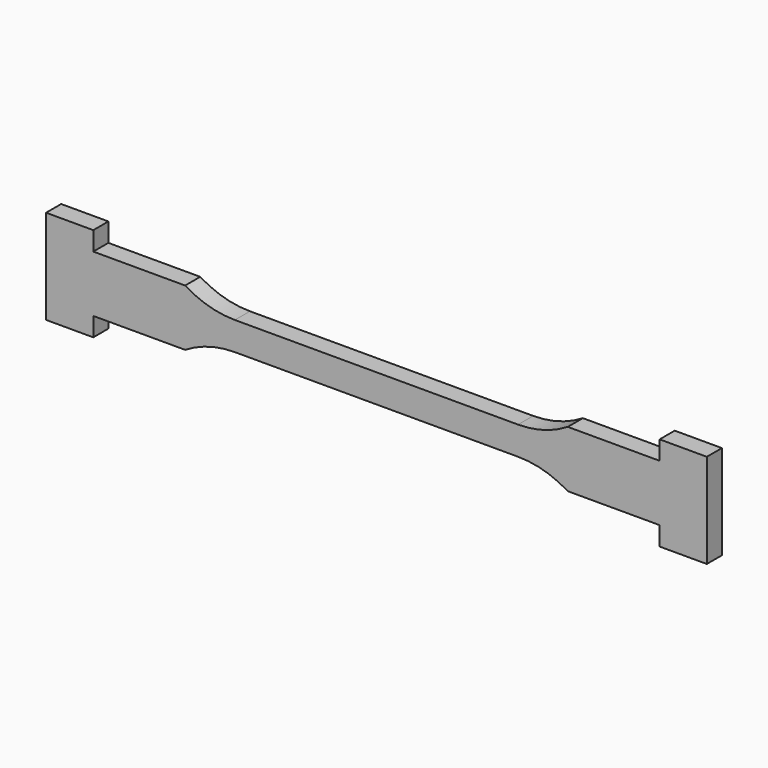
from build123d import *

# Parameters (mm, degrees)
F1_DEPTH = 2


with BuildPart() as f1:
    # F0 (on Front) → F1 (new body)
    with BuildSketch(Plane.XZ):
        with BuildLine():
            Line((-30, 5), (-35, 5))
            Line((-35, 5), (-35, 1.5))
            Line((-35, 1.5), (-35, -1.5))
            Line((-35, -1.5), (-35, -5))
            Line((-35, -5), (-30, -5))
            Line((-30, -5), (-30, -3))
            Line((-30, -3), (-20.267827, -3))
            ThreePointArc((-20.267827, -3), (-17.738613, -1.882308), (-15, -1.5))
            Line((-15, -1.5), (15, -1.5))
            ThreePointArc((15, -1.5), (17.738613, -1.882308), (20.267827, -3))
            Line((20.267827, -3), (30, -3))
            Line((30, -3), (30, -5))
            Line((30, -5), (35, -5))
            Line((35, -5), (35, -1.5))
            Line((35, -1.5), (35, 1.5))
            Line((35, 1.5), (35, 5))
            Line((35, 5), (30, 5))
            Line((30, 5), (30, 3))
            Line((30, 3), (20.267827, 3))
            ThreePointArc((20.267827, 3), (17.738613, 1.882308), (15, 1.5))
            Line((15, 1.5), (-15, 1.5))
            ThreePointArc((-15, 1.5), (-17.738613, 1.882308), (-20.267827, 3))
            Line((-20.267827, 3), (-30, 3))
            Line((-30, 3), (-30, 5))
        make_face()
    extrude(amount=F1_DEPTH)


solid = f1.part
